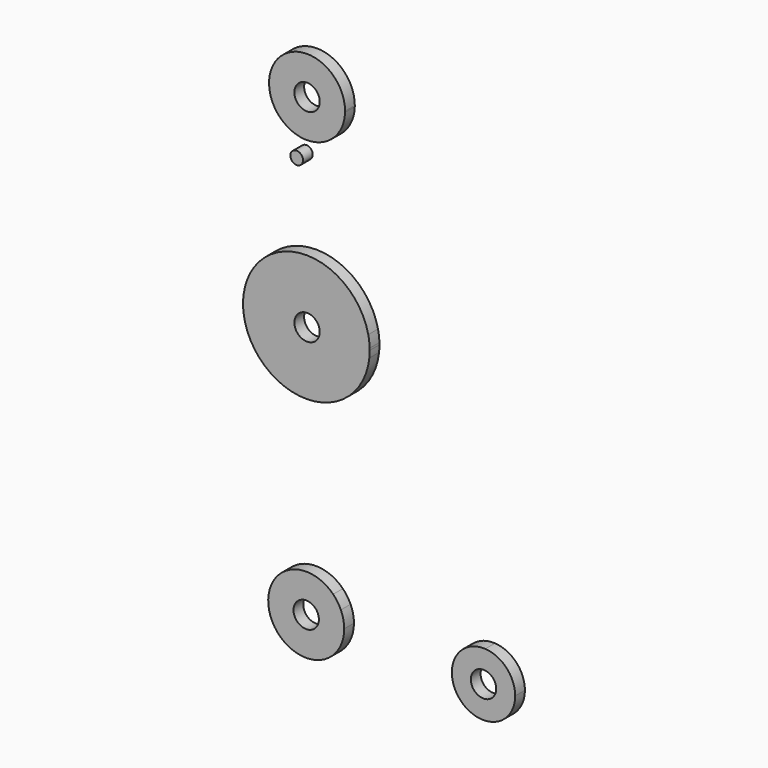
from build123d import *

# Parameters (mm, degrees)
F0_R     = 3.175
F1_DEPTH = 3.048
F0_R_2   = 1.5875


with BuildPart() as f1:
    # F0 (on Front) → F1 (new body)
    with BuildSketch(Plane.XZ):
        with BuildLine():
            ThreePointArc((-39.5063975536, 68.9792692733), (-39.5031003941, 69.1239333763), (-39.5020012563, 69.268630874))
            ThreePointArc((-39.5020012563, 69.268630874), (-58.5509021186, 69.4133283718), (-39.5063975536, 68.9792692733))
        make_face()
        with Locations((-49.0270012563, 69.268630874)):
            Circle(F0_R, mode=Mode.SUBTRACT)
    extrude(amount=F1_DEPTH)


with BuildPart() as f1b:
    # F0 (on Front) → F1, piece 2 (new body)
    with BuildSketch(Plane.XZ):
        with BuildLine():
            ThreePointArc((-49.3095952986, -54.5561285654), (-49.0877875384, -54.5551222873), (-48.8660633521, -54.548951363))
            Line((-48.8660633521, -54.548951363), (-49.3095952986, -54.5561285654))
        make_face()
        with BuildLine():
            Line((-49.3095952986, -54.5561285654), (-48.8660633521, -54.548951363))
            ThreePointArc((-48.8660633521, -54.548951363), (-42.3751152762, -51.6323455199), (-39.7169002332, -45.031369126))
            ThreePointArc((-39.7169002332, -45.031369126), (-39.9282457987, -43.0360079871), (-40.5529036084, -41.1291950327))
            Line((-40.5529036084, -41.1291950327), (-42.4889578182, -38.3139742634))
            ThreePointArc((-42.4889578182, -38.3139742634), (-58.0239858126, -41.343470283), (-49.3095952986, -54.5561285654))
        make_face()
        with Locations((-49.2419002332, -45.031369126)):
            Circle(F0_R, mode=Mode.SUBTRACT)
        with BuildLine():
            ThreePointArc((-40.5529036084, -41.1291950327), (-41.3936687559, -39.6340653845), (-42.4889578182, -38.3139742634))
            Line((-42.4889578182, -38.3139742634), (-40.5529036084, -41.1291950327))
        make_face()
    extrude(amount=F1_DEPTH)


with BuildPart() as f1c:
    # F0 (on Front) → F1, piece 3 (new body)
    with BuildSketch(Plane.XZ):
        with BuildLine():
            ThreePointArc((3.1371635102, -45.8973437433), (0.9643130299, -40.4409051461), (-4.364624752, -37.9718114879))
            ThreePointArc((-4.364624752, -37.9718114879), (-12.7363474773, -45.7436041714), (-4.6719096149, -53.8338047171))
            ThreePointArc((-4.6719096149, -53.8338047171), (0.8575471503, -51.4644128974), (3.1371635102, -45.8973437433))
        make_face()
        with Locations((-4.8003364898, -45.8973437433)):
            Circle(F0_R, mode=Mode.SUBTRACT)
    extrude(amount=F1_DEPTH)


with BuildPart() as f1d:
    # F0 (on Front) → F1, piece 4 (new body)
    with BuildSketch(Plane.XZ):
        with BuildLine():
            ThreePointArc((-33.3316972701, 18.9663124906), (-33.443544009, 20.4146315159), (-33.6873111867, 21.8466633784))
            Line((-33.6873111867, 21.8466633784), (-33.3316972701, 18.9663124906))
        make_face()
        with BuildLine():
            Line((-33.3316972701, 18.9663124906), (-33.6873111867, 21.8466633784))
            ThreePointArc((-33.6873111867, 21.8466633784), (-49.9489708596, 34.3267122861), (-64.9600475817, 20.3674583055))
            ThreePointArc((-64.9600475817, 20.3674583055), (-65.073919581, 18.4694411439), (-64.9600475817, 16.5714239823))
            ThreePointArc((-64.9600475817, 16.5714239823), (-49.1025689448, 2.5947335385), (-33.4159137928, 16.7628793108))
            ThreePointArc((-33.4159137928, 16.7628793108), (-33.3469348175, 17.6149213628), (-33.323919581, 18.4694411439))
            ThreePointArc((-33.323919581, 18.4694411439), (-33.3258641224, 18.717907252), (-33.3316972701, 18.9663124906))
        make_face()
        with Locations((-49.0270012563, 18.468630874)):
            Circle(F0_R, mode=Mode.SUBTRACT)
    extrude(amount=F1_DEPTH)


with BuildPart() as f1e:
    # F0 (on Front) → F1, piece 5 (new body)
    with BuildSketch(Plane.XZ):
        with Locations((-51.6277775168, 54.9946411439)):
            Circle(F0_R_2)
    extrude(amount=F1_DEPTH)


solid = Compound([f1.part, f1b.part, f1c.part, f1d.part, f1e.part])
